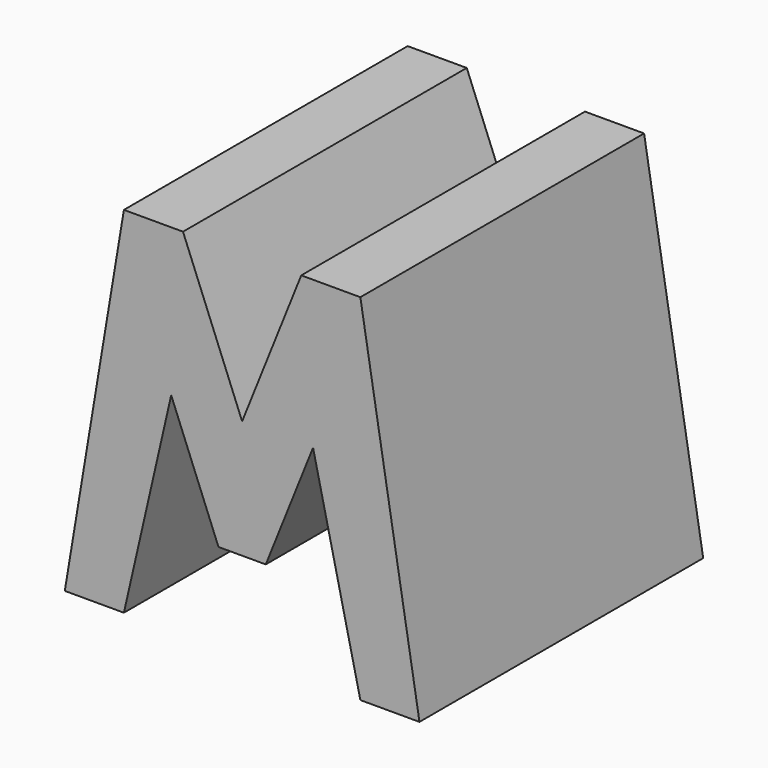
from build123d import *

# Parameters (mm, degrees)
F2_DEPTH = 38.1


with BuildPart() as f2:
    # F1 (on offset) → F2 (new body)
    with BuildSketch(Plane.XZ.offset(38.1)):
        Polygon((6.35, 38.1), (0, 0), (6.35, 0), (11.43, 22.225), (16.51, 9.525), (21.59, 9.525), (26.67, 22.225), (31.75, 0), (38.1, 0), (31.75, 38.1), (25.4, 38.1), (19.05, 22.225), (12.7, 38.1), align=None)
    extrude(amount=F2_DEPTH)


solid = f2.part
